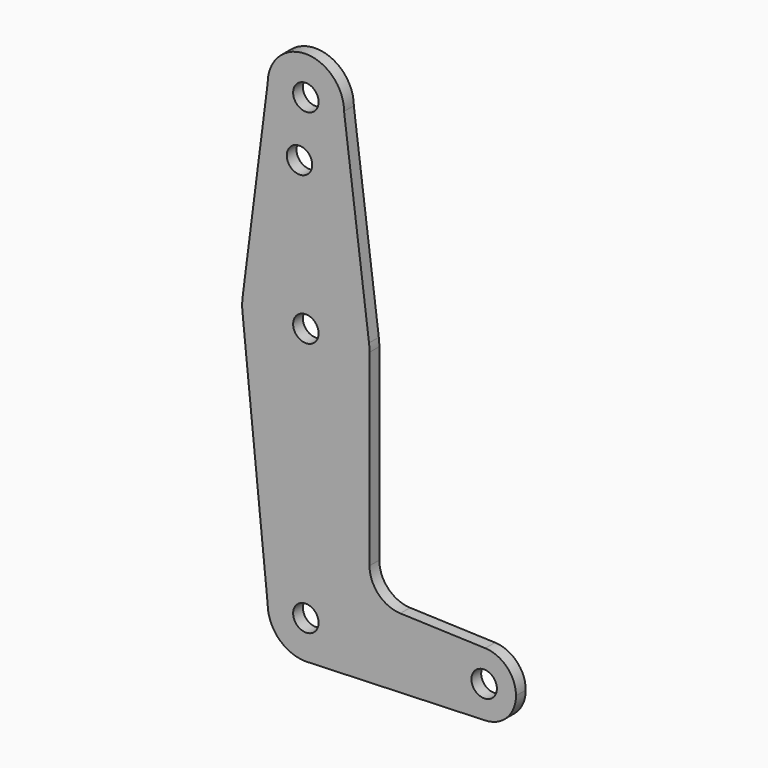
from build123d import *

# Parameters (mm, degrees)
F0_R     = 3.175
F1_DEPTH = 3.048


with BuildPart() as f1:
    # F0 (on Front) → F1 (new body)
    with BuildSketch(Plane.XZ):
        with BuildLine():
            Line((-9.525, 114.3), (-15.747457, 65.508289))
            ThreePointArc((-15.747457, 65.508289), (0, 79.375), (15.747457, 65.508289))
            Line((15.747457, 65.508289), (9.525, 114.3))
            ThreePointArc((9.525, 114.3), (0, 104.775), (-9.525, 114.3))
        make_face()
        with Locations((-1.5875, 99.990685)):
            Circle(F0_R, mode=Mode.SUBTRACT)
        with BuildLine():
            ThreePointArc((-9.525, 0), (0, 9.525), (9.525, 0))
            ThreePointArc((9.525, 0), (6.970557, -6.491299), (0.677344, -9.500886))
            Line((0.677344, -9.500886), (44.732405, -7.932475))
            ThreePointArc((44.732405, -7.932475), (36.5125, 0.000539), (44.733482, 7.932436))
            Line((44.733482, 7.932436), (23.541264, 8.689784))
            ThreePointArc((23.541264, 8.689784), (18.104054, 11.114571), (15.875, 16.634912))
            Line((15.875, 16.634912), (15.875, 63.5))
            ThreePointArc((15.875, 63.5), (1.006168, 47.656918), (-15.747457, 61.491711))
            Line((-15.747457, 61.491711), (-9.525, 0))
        make_face()
        with BuildLine():
            ThreePointArc((-15.747457, 65.508289), (-15.875, 63.5), (-15.747457, 61.491711))
            ThreePointArc((-15.747457, 61.491711), (1.006168, 47.656918), (15.875, 63.5))
            ThreePointArc((15.875, 63.5), (15.843082, 64.506168), (15.747457, 65.508289))
            ThreePointArc((15.747457, 65.508289), (0, 79.375), (-15.747457, 65.508289))
        make_face()
        with Locations((0, 63.5)):
            Circle(F0_R, mode=Mode.SUBTRACT)
        with BuildLine():
            ThreePointArc((9.525, 114.3), (0, 123.825), (-9.525, 114.3))
            ThreePointArc((-9.525, 114.3), (0, 104.775), (9.525, 114.3))
        make_face()
        with Locations((0, 114.3)):
            Circle(F0_R, mode=Mode.SUBTRACT)
        with BuildLine():
            ThreePointArc((0.677344, -9.500886), (6.970557, -6.491299), (9.525, 0))
            ThreePointArc((9.525, 0), (0, 9.525), (-9.525, 0))
            ThreePointArc((-9.525, 0), (-6.735192, -6.735192), (0, -9.525))
            Line((0, -9.525), (0.677344, -9.500886))
        make_face()
        Circle(F0_R, mode=Mode.SUBTRACT)
        with BuildLine():
            ThreePointArc((44.733482, 7.932436), (36.5125, 0.000539), (44.732405, -7.932475))
            ThreePointArc((44.732405, -7.932475), (50.161633, -5.51191), (52.3875, 0))
            ThreePointArc((52.3875, 0), (50.162007, 5.511523), (44.733482, 7.932436))
        make_face()
        with Locations((44.45, 0)):
            Circle(F0_R, mode=Mode.SUBTRACT)
    extrude(amount=F1_DEPTH)


solid = f1.part
